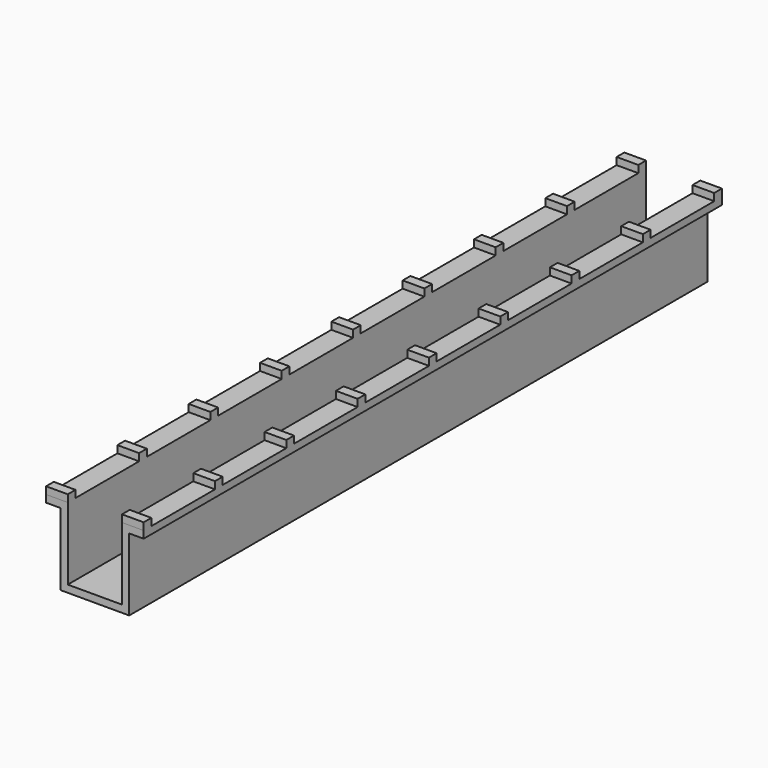
from build123d import *

# Parameters (mm, degrees)
F1_DEPTH = 100
F2_W     = 3
F2_H     = 1.333333
F2_H_2   = 1.333334
F3_DEPTH = 1


with BuildPart() as f1:
    # F0 (on Front) → F1 (new body)
    with BuildSketch(Plane.XZ):
        Polygon((3, 0), (0, 0), (0, -1), (2, -1), (2, -11), (11.5, -11), (11.5, -1), (13.5, -1), (13.5, 0), (10.5, 0), (10.5, -10), (3, -10), align=None)
    extrude(amount=F1_DEPTH)

    # F2 (on face) → F3 (join)
    with BuildSketch(Plane.XY):
        with Locations((1.5, -0.666666)):
            Rectangle(F2_W, F2_H)
        with Locations((12, -0.666666)):
            Rectangle(F2_W, F2_H)
        with Locations((1.5, -13)):
            Rectangle(F2_W, F2_H_2)
        with Locations((12, -13)):
            Rectangle(F2_W, F2_H_2)
        with Locations((1.5, -25.333334)):
            Rectangle(F2_W, F2_H)
        with Locations((12, -25.333334)):
            Rectangle(F2_W, F2_H)
        with Locations((1.5, -37.666666)):
            Rectangle(F2_W, F2_H)
        with Locations((12, -37.666666)):
            Rectangle(F2_W, F2_H)
        with Locations((1.5, -50)):
            Rectangle(F2_W, F2_H_2)
        with Locations((12, -50)):
            Rectangle(F2_W, F2_H_2)
        with Locations((1.5, -62.333333)):
            Rectangle(F2_W, F2_H)
        with Locations((12, -62.333333)):
            Rectangle(F2_W, F2_H)
        with Locations((1.5, -74.666666)):
            Rectangle(F2_W, F2_H)
        with Locations((12, -74.666666)):
            Rectangle(F2_W, F2_H)
        with Locations((1.5, -87)):
            Rectangle(F2_W, F2_H_2)
        with Locations((12, -87)):
            Rectangle(F2_W, F2_H_2)
        with Locations((1.5, -99.333333)):
            Rectangle(F2_W, F2_H)
        with Locations((12, -99.333333)):
            Rectangle(F2_W, F2_H)
    extrude(amount=F3_DEPTH)


solid = f1.part
